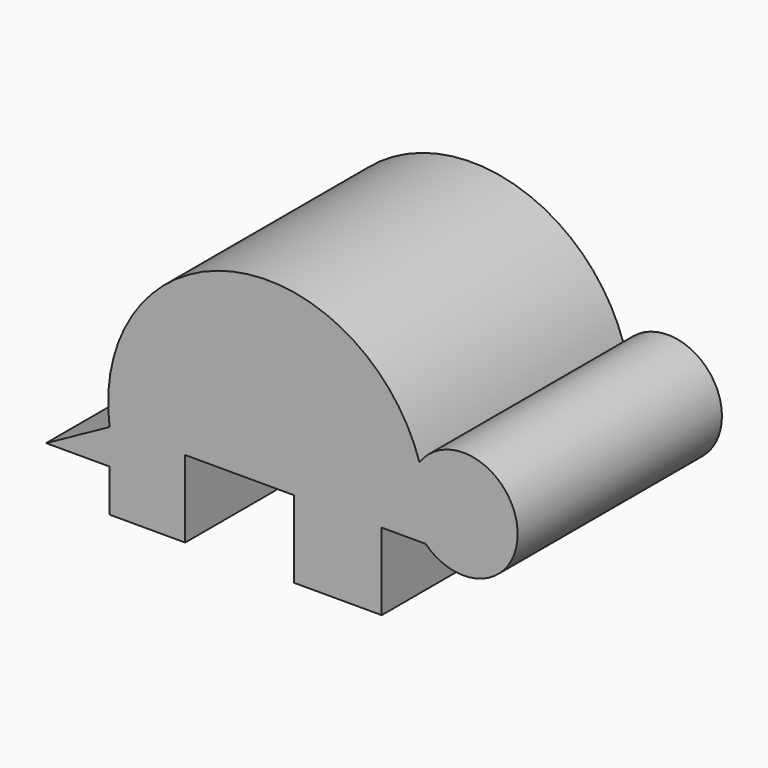
from build123d import *

# Parameters (mm, degrees)
F0_W     = 8.722893
F0_H     = 7.670132
F1_DEPTH = 25.4


with BuildPart() as f1:
    # F0 (on Front) → F1 (new body)
    with BuildSketch(Plane.XZ):
        with BuildLine():
            Line((-4.361449, 0), (0, 0))
            ThreePointArc((0, 0), (0.083105, 3.507627), (-0.607055, 6.94769))
            ThreePointArc((-0.607055, 6.94769), (-19.203331, 17.598601), (-31.432502, 0))
            Line((-31.432502, 0), (-23.912763, 0))
            Line((-23.912763, 0), (-13.084342, 0))
            Line((-13.084342, 0), (-4.361449, 0))
        make_face()
        with BuildLine():
            ThreePointArc((-0.607055, 6.94769), (0.083105, 3.507627), (0, 0))
            ThreePointArc((0, 0), (9.139913, 4.298967), (-0.607055, 6.94769))
        make_face()
        with Locations((-8.722895, -3.835066)):
            Rectangle(F0_W, F0_H)
        Polygon((-31.432502, -3.459079), (-31.432502, 0), (-37.749078, -3.459079), align=None)
        Polygon((-23.912763, 0), (-31.432502, 0), (-31.432502, -3.459079), (-31.432502, -7.670132), (-23.912763, -7.670132), align=None)
    extrude(amount=F1_DEPTH)


solid = f1.part
